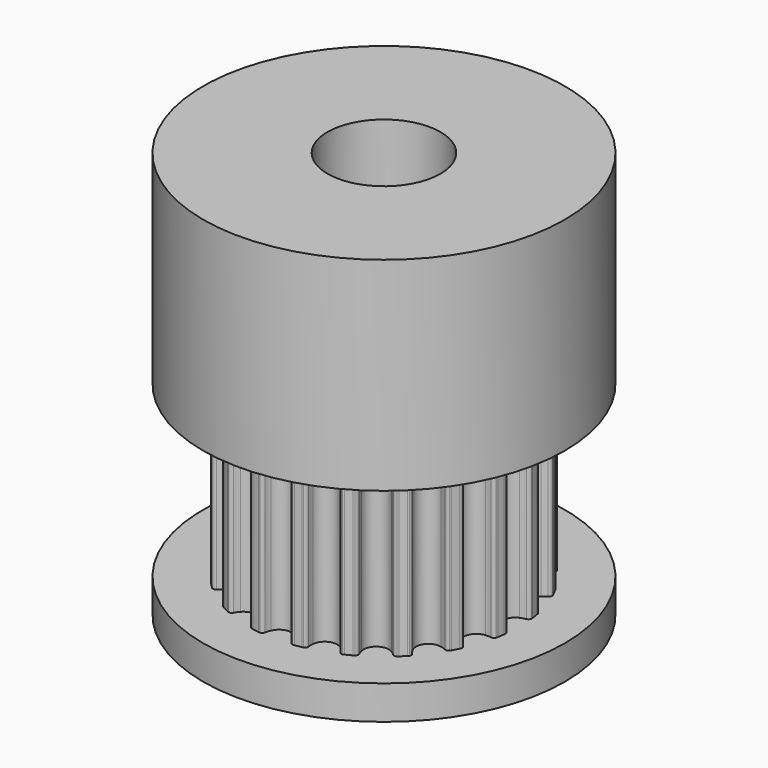
from build123d import *

# Parameters (mm, degrees)
F1_DEPTH  = 7.5
F2_R      = 8
F3_DEPTH  = 9
F4_R      = 8
F5_DEPTH  = 1.5
F6_R      = 2.5
F7_DEPTH  = 18.001
F8_R      = 1.5
F9_DEPTH  = 8.001
F10_R     = 1.5
F11_DEPTH = 8.0010001


with BuildPart() as f1:
    # F0 (on Top) → F1 (new body)
    with BuildSketch(Plane.XY):
        with BuildLine():
            ThreePointArc((-0.5137469529, -5.5950260293), (0, -5.25), (0.5137469529, -5.5950260293))
            ThreePointArc((0.5137469529, -5.5950260293), (0.5592692601, -5.7125893356), (0.5896381917, -5.8349459432))
            ThreePointArc((0.5896381917, -5.8349459432), (0.634011817, -5.9169199806), (0.718236871, -5.9568562008))
            ThreePointArc((0.718236871, -5.9568562008), (0.7555100891, -5.952243653), (0.7927537045, -5.9473978818))
            ThreePointArc((0.7927537045, -5.9473978818), (0.9386067902, -5.9261300436), (1.0838934413, -5.9012858775))
            ThreePointArc((1.0838934413, -5.9012858775), (1.1208116501, -5.8943855698), (1.1576859427, -5.8872543055))
            ThreePointArc((1.1576859427, -5.8872543055), (1.2254477584, -5.82324573), (1.2423182132, -5.7315715833))
            ThreePointArc((1.2423182132, -5.7315715833), (1.2333905124, -5.6058190183), (1.2403557397, -5.4799425032))
            ThreePointArc((1.2403557397, -5.4799425032), (1.6223392205, -4.9930467105), (2.2175605143, -5.1624294247))
            ThreePointArc((2.2175605143, -5.1624294247), (2.2971838607, -5.2601716067), (2.3638767022, -5.3671551397))
            ThreePointArc((2.3638767022, -5.3671551397), (2.4314098983, -5.4314048778), (2.5238536555, -5.4433595073))
            ThreePointArc((2.5238536555, -5.4433595073), (2.5578772368, -5.4274546558), (2.5918005942, -5.4113371434))
            ThreePointArc((2.5918005942, -5.4113371434), (2.7239429984, -5.3460391451), (2.8544415451, -5.2775148949))
            ThreePointArc((2.8544415451, -5.2775148949), (2.8874205358, -5.2595439583), (2.9202863902, -5.2413669399))
            ThreePointArc((2.9202863902, -5.2413669399), (2.964951969, -5.1595516144), (2.9526678557, -5.0671510626))
            ThreePointArc((2.9526678557, -5.0671510626), (2.905317428, -4.9503120775), (2.8730437705, -4.828444024))
            ThreePointArc((2.8730437705, -4.828444024), (3.0858725745, -4.2473392205), (3.7043038019, -4.2244982593))
            ThreePointArc((3.7043038019, -4.2244982593), (3.8102340997, -4.2928516312), (3.906722491, -4.373989796))
            ThreePointArc((3.906722491, -4.373989796), (3.9908046381, -4.4142260228), (4.0824180595, -4.3970288591))
            ThreePointArc((4.0824180595, -4.3970288591), (4.1098615388, -4.3713885816), (4.1371439837, -4.3455770225))
            ThreePointArc((4.1371439837, -4.3455770225), (4.2426406871, -4.2426406871), (4.3455770225, -4.1371439837))
            ThreePointArc((4.3455770225, -4.1371439837), (4.3713885816, -4.1098615388), (4.3970288591, -4.0824180595))
            ThreePointArc((4.3970288591, -4.0824180595), (4.4142260228, -3.9908046381), (4.373989796, -3.906722491))
            ThreePointArc((4.373989796, -3.906722491), (4.2928516312, -3.8102340997), (4.2244982593, -3.7043038019))
            ThreePointArc((4.2244982593, -3.7043038019), (4.2473392205, -3.0858725745), (4.828444024, -2.8730437705))
            ThreePointArc((4.828444024, -2.8730437705), (4.9503120775, -2.905317428), (5.0671510626, -2.9526678557))
            ThreePointArc((5.0671510626, -2.9526678557), (5.1595516144, -2.964951969), (5.2413669399, -2.9202863902))
            ThreePointArc((5.2413669399, -2.9202863902), (5.2595439583, -2.8874205358), (5.2775148949, -2.8544415451))
            ThreePointArc((5.2775148949, -2.8544415451), (5.3460391451, -2.7239429984), (5.4113371434, -2.5918005942))
            ThreePointArc((5.4113371434, -2.5918005942), (5.4432427829, -2.4673716464), (5.3671551397, -2.3638767022))
            ThreePointArc((5.3671551397, -2.3638767022), (5.2601716067, -2.2971838607), (5.1624294247, -2.2175605143))
            ThreePointArc((5.1624294247, -2.2175605143), (4.9930467105, -1.6223392205), (5.4799425032, -1.2403557397))
            ThreePointArc((5.4799425032, -1.2403557397), (5.6058190183, -1.2333905124), (5.7315715833, -1.2423182132))
            ThreePointArc((5.7315715833, -1.2423182132), (5.82324573, -1.2254477584), (5.8872543055, -1.1576859427))
            ThreePointArc((5.8872543055, -1.1576859427), (5.8943855698, -1.1208116501), (5.9012858775, -1.0838934413))
            ThreePointArc((5.9012858775, -1.0838934413), (5.9261300436, -0.9386067902), (5.9473978818, -0.7927537045))
            ThreePointArc((5.9473978818, -0.7927537045), (5.952243653, -0.7555100891), (5.9568562008, -0.718236871))
            ThreePointArc((5.9568562008, -0.718236871), (5.9169199806, -0.634011817), (5.8349459432, -0.5896381917))
            ThreePointArc((5.8349459432, -0.5896381917), (5.7125893356, -0.5592692601), (5.5950260293, -0.5137469529))
            ThreePointArc((5.5950260293, -0.5137469529), (5.25, 0), (5.5950260293, 0.5137469529))
            ThreePointArc((5.5950260293, 0.5137469529), (5.7125893356, 0.5592692601), (5.8349459432, 0.5896381917))
            ThreePointArc((5.8349459432, 0.5896381917), (5.9169199806, 0.634011817), (5.9568562008, 0.718236871))
            ThreePointArc((5.9568562008, 0.718236871), (5.952243653, 0.7555100891), (5.9473978818, 0.7927537045))
            ThreePointArc((5.9473978818, 0.7927537045), (5.9261300436, 0.9386067902), (5.9012858775, 1.0838934413))
            ThreePointArc((5.9012858775, 1.0838934413), (5.8943855698, 1.1208116501), (5.8872543055, 1.1576859427))
            ThreePointArc((5.8872543055, 1.1576859427), (5.82324573, 1.2254477584), (5.7315715833, 1.2423182132))
            ThreePointArc((5.7315715833, 1.2423182132), (5.6058190183, 1.2333905124), (5.4799425032, 1.2403557397))
            ThreePointArc((5.4799425032, 1.2403557397), (4.9930467105, 1.6223392205), (5.1624294247, 2.2175605143))
            ThreePointArc((5.1624294247, 2.2175605143), (5.2601716067, 2.2971838607), (5.3671551397, 2.3638767022))
            ThreePointArc((5.3671551397, 2.3638767022), (5.4314048778, 2.4314098983), (5.4433595073, 2.5238536555))
            ThreePointArc((5.4433595073, 2.5238536555), (5.4274546558, 2.5578772368), (5.4113371434, 2.5918005942))
            ThreePointArc((5.4113371434, 2.5918005942), (5.3460391451, 2.7239429984), (5.2775148949, 2.8544415451))
            ThreePointArc((5.2775148949, 2.8544415451), (5.2595439583, 2.8874205358), (5.2413669399, 2.9202863902))
            ThreePointArc((5.2413669399, 2.9202863902), (5.1595516144, 2.964951969), (5.0671510626, 2.9526678557))
            ThreePointArc((5.0671510626, 2.9526678557), (4.9503120775, 2.905317428), (4.828444024, 2.8730437705))
            ThreePointArc((4.828444024, 2.8730437705), (4.2473392205, 3.0858725745), (4.2244982593, 3.7043038019))
            ThreePointArc((4.2244982593, 3.7043038019), (4.2928516312, 3.8102340997), (4.373989796, 3.906722491))
            ThreePointArc((4.373989796, 3.906722491), (4.4142260228, 3.9908046381), (4.3970288591, 4.0824180595))
            ThreePointArc((4.3970288591, 4.0824180595), (4.3713885816, 4.1098615388), (4.3455770225, 4.1371439837))
            ThreePointArc((4.3455770225, 4.1371439837), (4.2426406871, 4.2426406871), (4.1371439837, 4.3455770225))
            ThreePointArc((4.1371439837, 4.3455770225), (4.1098615388, 4.3713885816), (4.0824180595, 4.3970288591))
            ThreePointArc((4.0824180595, 4.3970288591), (3.9908046381, 4.4142260228), (3.906722491, 4.373989796))
            ThreePointArc((3.906722491, 4.373989796), (3.8102340997, 4.2928516312), (3.7043038019, 4.2244982593))
            ThreePointArc((3.7043038019, 4.2244982593), (3.0858725745, 4.2473392205), (2.8730437705, 4.828444024))
            ThreePointArc((2.8730437705, 4.828444024), (2.905317428, 4.9503120775), (2.9526678557, 5.0671510626))
            ThreePointArc((2.9526678557, 5.0671510626), (2.964951969, 5.1595516144), (2.9202863902, 5.2413669399))
            ThreePointArc((2.9202863902, 5.2413669399), (2.8874205358, 5.2595439583), (2.8544415451, 5.2775148949))
            ThreePointArc((2.8544415451, 5.2775148949), (2.7239429984, 5.3460391451), (2.5918005942, 5.4113371434))
            ThreePointArc((2.5918005942, 5.4113371434), (2.5578772368, 5.4274546558), (2.5238536555, 5.4433595073))
            ThreePointArc((2.5238536555, 5.4433595073), (2.4314098983, 5.4314048778), (2.3638767022, 5.3671551397))
            ThreePointArc((2.3638767022, 5.3671551397), (2.2971838607, 5.2601716067), (2.2175605143, 5.1624294247))
            ThreePointArc((2.2175605143, 5.1624294247), (1.6223392205, 4.9930467105), (1.2403557397, 5.4799425032))
            ThreePointArc((1.2403557397, 5.4799425032), (1.2333905124, 5.6058190183), (1.2423182132, 5.7315715833))
            ThreePointArc((1.2423182132, 5.7315715833), (1.2254477584, 5.82324573), (1.1576859427, 5.8872543055))
            ThreePointArc((1.1576859427, 5.8872543055), (1.1208116501, 5.8943855698), (1.0838934413, 5.9012858775))
            ThreePointArc((1.0838934413, 5.9012858775), (0.9386067902, 5.9261300436), (0.7927537045, 5.9473978818))
            ThreePointArc((0.7927537045, 5.9473978818), (0.7555100891, 5.952243653), (0.718236871, 5.9568562008))
            ThreePointArc((0.718236871, 5.9568562008), (0.634011817, 5.9169199806), (0.5896381917, 5.8349459432))
            ThreePointArc((0.5896381917, 5.8349459432), (0.5592692601, 5.7125893356), (0.5137469529, 5.5950260293))
            ThreePointArc((0.5137469529, 5.5950260293), (0, 5.25), (-0.5137469529, 5.5950260293))
            ThreePointArc((-0.5137469529, 5.5950260293), (-0.5592692601, 5.7125893356), (-0.5896381917, 5.8349459432))
            ThreePointArc((-0.5896381917, 5.8349459432), (-0.634011817, 5.9169199806), (-0.718236871, 5.9568562008))
            ThreePointArc((-0.718236871, 5.9568562008), (-0.7555100891, 5.952243653), (-0.7927537045, 5.9473978818))
            ThreePointArc((-0.7927537045, 5.9473978818), (-0.9386067902, 5.9261300436), (-1.0838934413, 5.9012858775))
            ThreePointArc((-1.0838934413, 5.9012858775), (-1.1208116501, 5.8943855698), (-1.1576859427, 5.8872543055))
            ThreePointArc((-1.1576859427, 5.8872543055), (-1.2254477584, 5.82324573), (-1.2423182132, 5.7315715833))
            ThreePointArc((-1.2423182132, 5.7315715833), (-1.2333905124, 5.6058190183), (-1.2403557397, 5.4799425032))
            ThreePointArc((-1.2403557397, 5.4799425032), (-1.6223392205, 4.9930467105), (-2.2175605143, 5.1624294247))
            ThreePointArc((-2.2175605143, 5.1624294247), (-2.2971838607, 5.2601716067), (-2.3638767022, 5.3671551397))
            ThreePointArc((-2.3638767022, 5.3671551397), (-2.4314098983, 5.4314048778), (-2.5238536555, 5.4433595073))
            ThreePointArc((-2.5238536555, 5.4433595073), (-2.5578772368, 5.4274546558), (-2.5918005942, 5.4113371434))
            ThreePointArc((-2.5918005942, 5.4113371434), (-2.7239429984, 5.3460391451), (-2.8544415451, 5.2775148949))
            ThreePointArc((-2.8544415451, 5.2775148949), (-2.8874205358, 5.2595439583), (-2.9202863902, 5.2413669399))
            ThreePointArc((-2.9202863902, 5.2413669399), (-2.964951969, 5.1595516144), (-2.9526678557, 5.0671510626))
            ThreePointArc((-2.9526678557, 5.0671510626), (-2.905317428, 4.9503120775), (-2.8730437705, 4.828444024))
            ThreePointArc((-2.8730437705, 4.828444024), (-3.0858725745, 4.2473392205), (-3.7043038019, 4.2244982593))
            ThreePointArc((-3.7043038019, 4.2244982593), (-3.8102340997, 4.2928516312), (-3.906722491, 4.373989796))
            ThreePointArc((-3.906722491, 4.373989796), (-3.9908046381, 4.4142260228), (-4.0824180595, 4.3970288591))
            ThreePointArc((-4.0824180595, 4.3970288591), (-4.1098615388, 4.3713885816), (-4.1371439837, 4.3455770225))
            ThreePointArc((-4.1371439837, 4.3455770225), (-4.2426406871, 4.2426406871), (-4.3455770225, 4.1371439837))
            ThreePointArc((-4.3455770225, 4.1371439837), (-4.3713885816, 4.1098615388), (-4.3970288591, 4.0824180595))
            ThreePointArc((-4.3970288591, 4.0824180595), (-4.4142260228, 3.9908046381), (-4.373989796, 3.906722491))
            ThreePointArc((-4.373989796, 3.906722491), (-4.2928516312, 3.8102340997), (-4.2244982593, 3.7043038019))
            ThreePointArc((-4.2244982593, 3.7043038019), (-4.2473392205, 3.0858725745), (-4.828444024, 2.8730437705))
            ThreePointArc((-4.828444024, 2.8730437705), (-4.9503120775, 2.905317428), (-5.0671510626, 2.9526678557))
            ThreePointArc((-5.0671510626, 2.9526678557), (-5.1595516144, 2.964951969), (-5.2413669399, 2.9202863902))
            ThreePointArc((-5.2413669399, 2.9202863902), (-5.2595439583, 2.8874205358), (-5.2775148949, 2.8544415451))
            ThreePointArc((-5.2775148949, 2.8544415451), (-5.3460391451, 2.7239429984), (-5.4113371434, 2.5918005942))
            ThreePointArc((-5.4113371434, 2.5918005942), (-5.4274546558, 2.5578772368), (-5.4433595073, 2.5238536555))
            ThreePointArc((-5.4433595073, 2.5238536555), (-5.4314048778, 2.4314098983), (-5.3671551397, 2.3638767022))
            ThreePointArc((-5.3671551397, 2.3638767022), (-5.2601716067, 2.2971838607), (-5.1624294247, 2.2175605143))
            ThreePointArc((-5.1624294247, 2.2175605143), (-4.9930467105, 1.6223392205), (-5.4799425032, 1.2403557397))
            ThreePointArc((-5.4799425032, 1.2403557397), (-5.6058190183, 1.2333905124), (-5.7315715833, 1.2423182132))
            ThreePointArc((-5.7315715833, 1.2423182132), (-5.82324573, 1.2254477584), (-5.8872543055, 1.1576859427))
            ThreePointArc((-5.8872543055, 1.1576859427), (-5.8943855698, 1.1208116501), (-5.9012858775, 1.0838934413))
            ThreePointArc((-5.9012858775, 1.0838934413), (-5.9261300436, 0.9386067902), (-5.9473978818, 0.7927537045))
            ThreePointArc((-5.9473978818, 0.7927537045), (-5.952243653, 0.7555100891), (-5.9568562008, 0.718236871))
            ThreePointArc((-5.9568562008, 0.718236871), (-5.9169199806, 0.634011817), (-5.8349459432, 0.5896381917))
            ThreePointArc((-5.8349459432, 0.5896381917), (-5.7125893356, 0.5592692601), (-5.5950260293, 0.5137469529))
            ThreePointArc((-5.5950260293, 0.5137469529), (-5.25, 0), (-5.5950260293, -0.5137469529))
            ThreePointArc((-5.5950260293, -0.5137469529), (-5.7125893356, -0.5592692601), (-5.8349459432, -0.5896381917))
            ThreePointArc((-5.8349459432, -0.5896381917), (-5.9169199806, -0.634011817), (-5.9568562008, -0.718236871))
            ThreePointArc((-5.9568562008, -0.718236871), (-5.952243653, -0.7555100891), (-5.9473978818, -0.7927537045))
            ThreePointArc((-5.9473978818, -0.7927537045), (-5.9261300436, -0.9386067902), (-5.9012858775, -1.0838934413))
            ThreePointArc((-5.9012858775, -1.0838934413), (-5.8943855698, -1.1208116501), (-5.8872543055, -1.1576859427))
            ThreePointArc((-5.8872543055, -1.1576859427), (-5.82324573, -1.2254477584), (-5.7315715833, -1.2423182132))
            ThreePointArc((-5.7315715833, -1.2423182132), (-5.6058190183, -1.2333905124), (-5.4799425032, -1.2403557397))
            ThreePointArc((-5.4799425032, -1.2403557397), (-4.9930467105, -1.6223392205), (-5.1624294247, -2.2175605143))
            ThreePointArc((-5.1624294247, -2.2175605143), (-5.2601716067, -2.2971838607), (-5.3671551397, -2.3638767022))
            ThreePointArc((-5.3671551397, -2.3638767022), (-5.4314048778, -2.4314098983), (-5.4433595073, -2.5238536555))
            ThreePointArc((-5.4433595073, -2.5238536555), (-5.4274546558, -2.5578772368), (-5.4113371434, -2.5918005942))
            ThreePointArc((-5.4113371434, -2.5918005942), (-5.3460391451, -2.7239429984), (-5.2775148949, -2.8544415451))
            ThreePointArc((-5.2775148949, -2.8544415451), (-5.2595439583, -2.8874205358), (-5.2413669399, -2.9202863902))
            ThreePointArc((-5.2413669399, -2.9202863902), (-5.1595516144, -2.964951969), (-5.0671510626, -2.9526678557))
            ThreePointArc((-5.0671510626, -2.9526678557), (-4.9503120775, -2.905317428), (-4.828444024, -2.8730437705))
            ThreePointArc((-4.828444024, -2.8730437705), (-4.2473392205, -3.0858725745), (-4.2244982593, -3.7043038019))
            ThreePointArc((-4.2244982593, -3.7043038019), (-4.2928516312, -3.8102340997), (-4.373989796, -3.906722491))
            ThreePointArc((-4.373989796, -3.906722491), (-4.4142260228, -3.9908046381), (-4.3970288591, -4.0824180595))
            ThreePointArc((-4.3970288591, -4.0824180595), (-4.3713885816, -4.1098615388), (-4.3455770225, -4.1371439837))
            ThreePointArc((-4.3455770225, -4.1371439837), (-4.2426406871, -4.2426406871), (-4.1371439837, -4.3455770225))
            ThreePointArc((-4.1371439837, -4.3455770225), (-4.1098615388, -4.3713885816), (-4.0824180595, -4.3970288591))
            ThreePointArc((-4.0824180595, -4.3970288591), (-3.9908046381, -4.4142260228), (-3.906722491, -4.373989796))
            ThreePointArc((-3.906722491, -4.373989796), (-3.8102340997, -4.2928516312), (-3.7043038019, -4.2244982593))
            ThreePointArc((-3.7043038019, -4.2244982593), (-3.0858725745, -4.2473392205), (-2.8730437705, -4.828444024))
            ThreePointArc((-2.8730437705, -4.828444024), (-2.905317428, -4.9503120775), (-2.9526678557, -5.0671510626))
            ThreePointArc((-2.9526678557, -5.0671510626), (-2.964951969, -5.1595516144), (-2.9202863902, -5.2413669399))
            ThreePointArc((-2.9202863902, -5.2413669399), (-2.8874205358, -5.2595439583), (-2.8544415451, -5.2775148949))
            ThreePointArc((-2.8544415451, -5.2775148949), (-2.7239429984, -5.3460391451), (-2.5918005942, -5.4113371434))
            ThreePointArc((-2.5918005942, -5.4113371434), (-2.5578772368, -5.4274546558), (-2.5238536555, -5.4433595073))
            ThreePointArc((-2.5238536555, -5.4433595073), (-2.4314098983, -5.4314048778), (-2.3638767022, -5.3671551397))
            ThreePointArc((-2.3638767022, -5.3671551397), (-2.2971838607, -5.2601716067), (-2.2175605143, -5.1624294247))
            ThreePointArc((-2.2175605143, -5.1624294247), (-1.6223392205, -4.9930467105), (-1.2403557397, -5.4799425032))
            ThreePointArc((-1.2403557397, -5.4799425032), (-1.2333905124, -5.6058190183), (-1.2423182132, -5.7315715833))
            ThreePointArc((-1.2423182132, -5.7315715833), (-1.2254477584, -5.82324573), (-1.1576859427, -5.8872543055))
            ThreePointArc((-1.1576859427, -5.8872543055), (-1.1208116501, -5.8943855698), (-1.0838934413, -5.9012858775))
            ThreePointArc((-1.0838934413, -5.9012858775), (-0.9386067902, -5.9261300436), (-0.7927537045, -5.9473978818))
            ThreePointArc((-0.7927537045, -5.9473978818), (-0.7555100891, -5.952243653), (-0.718236871, -5.9568562008))
            ThreePointArc((-0.718236871, -5.9568562008), (-0.634011817, -5.9169199806), (-0.5896381917, -5.8349459432))
            ThreePointArc((-0.5896381917, -5.8349459432), (-0.5592692601, -5.7125893356), (-0.5137469529, -5.5950260293))
        make_face()
    extrude(amount=F1_DEPTH)

    # F2 (on face) → F3 (join)
    with BuildSketch(Plane.XY.offset(7.5)):
        Circle(F2_R)
    extrude(amount=F3_DEPTH)

    # F4 (on face) → F5 (join)
    with BuildSketch(Plane(origin=(0, 0, 0), x_dir=(1, 0, 0), z_dir=(0, 0, -1))):
        Circle(F4_R)
    extrude(amount=F5_DEPTH)

    # F6 (on face) → F7 (cut, through all)
    with BuildSketch(Plane(origin=(0, 0, -1.5), x_dir=(1, 0, 0), z_dir=(0, 0, -1))):
        Circle(F6_R)
    extrude(amount=-F7_DEPTH, mode=Mode.SUBTRACT)

    # F8 (on Right) → F9 (cut, through all)
    with BuildSketch(Plane.YZ):
        with Locations((0, 12)):
            Circle(F8_R)
    extrude(amount=-F9_DEPTH, mode=Mode.SUBTRACT)

    # F10 (on Front) → F11 (cut, through all)
    with BuildSketch(Plane.XZ):
        with Locations((0, 12)):
            Circle(F10_R)
    extrude(amount=-F11_DEPTH, mode=Mode.SUBTRACT)


solid = f1.part
